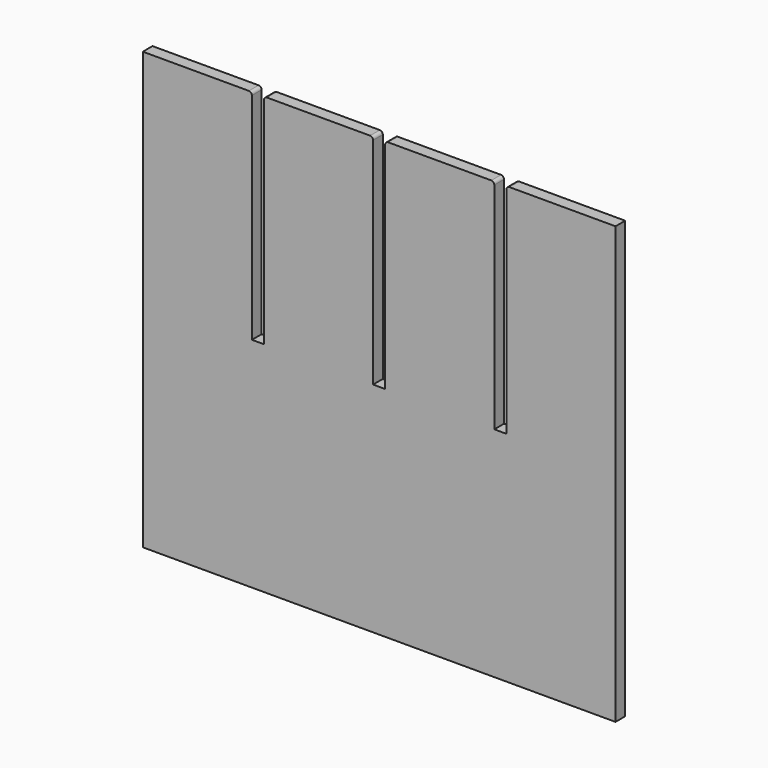
from build123d import *

# Parameters (mm, degrees)
F1_DEPTH = 3.175


with BuildPart() as f1:
    # F0 (on Front) → F1 (new body, symmetric)
    with BuildSketch(Plane.XZ):
        with BuildLine():
            Line((-73.025, 114.3), (-128.5875, 114.3))
            Line((-128.5875, 114.3), (-128.5875, -114.3))
            Line((-128.5875, -114.3), (119.0625, -114.3))
            Line((119.0625, -114.3), (119.0625, 114.3))
            Line((119.0625, 114.3), (63.5, 114.3))
            ThreePointArc((63.5, 114.3), (62.377468, 113.835032), (61.9125, 112.7125))
            Line((61.9125, 112.7125), (61.9125, 0))
            Line((61.9125, 0), (55.5625, 0))
            Line((55.5625, 0), (55.5625, 112.7125))
            ThreePointArc((55.5625, 112.7125), (55.097532, 113.835032), (53.975, 114.3))
            Line((53.975, 114.3), (0, 114.3))
            ThreePointArc((0, 114.3), (-1.122532, 113.835032), (-1.5875, 112.7125))
            Line((-1.5875, 112.7125), (-1.5875, 0))
            Line((-1.5875, 0), (-7.9375, 0))
            Line((-7.9375, 0), (-7.9375, 112.7125))
            ThreePointArc((-7.9375, 112.7125), (-8.402468, 113.835032), (-9.525, 114.3))
            Line((-9.525, 114.3), (-63.5, 114.3))
            ThreePointArc((-63.5, 114.3), (-64.622532, 113.835032), (-65.0875, 112.7125))
            Line((-65.0875, 112.7125), (-65.0875, 0))
            Line((-65.0875, 0), (-71.4375, 0))
            Line((-71.4375, 0), (-71.4375, 112.7125))
            ThreePointArc((-71.4375, 112.7125), (-71.902468, 113.835032), (-73.025, 114.3))
        make_face()
    extrude(amount=F1_DEPTH, both=True)


solid = f1.part
